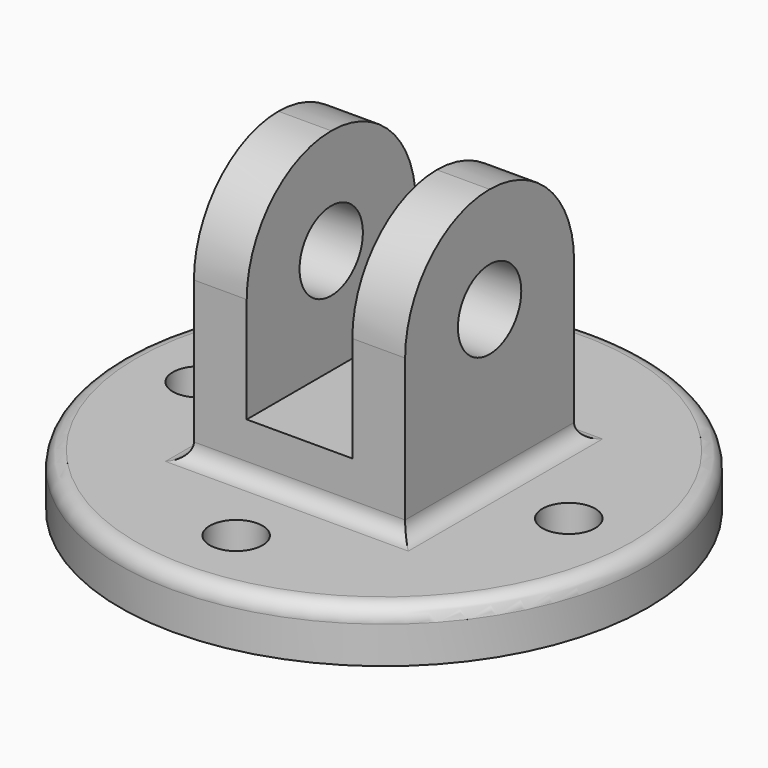
from build123d import *

# Parameters (mm, degrees)
F0_R     = 63.5
F0_R_2   = 6.35
F1_DEPTH = 12.7
F3_DEPTH = 25.4
F4_R     = 9.525
F5_DEPTH = 25.4
F6_R     = 3.81


with BuildPart() as f1:
    # F0 (on Top) → F1 (new body)
    with BuildSketch(Plane.XY):
        Circle(F0_R)
        with Locations((0, -44.45)):
            Circle(F0_R_2, mode=Mode.SUBTRACT)
        with Locations((-44.45, 0)):
            Circle(F0_R_2, mode=Mode.SUBTRACT)
        with Locations((44.45, 0)):
            Circle(F0_R_2, mode=Mode.SUBTRACT)
        with Locations((0, 44.45)):
            Circle(F0_R_2, mode=Mode.SUBTRACT)
    extrude(amount=F1_DEPTH)

    # F2 (on Front) → F3 (join, symmetric)
    with BuildSketch(Plane.XZ):
        Polygon((-25.4, 76.2), (-25.4, 12.7), (25.4, 12.7), (25.4, 76.2), (12.7, 76.2), (12.7, 25.4), (-12.7, 25.4), (-12.7, 76.2), align=None)
    extrude(amount=F3_DEPTH, both=True)

    # F4 (on Right) → F5 (cut, symmetric)
    with BuildSketch(Plane.YZ):
        with Locations((0, 50.8)):
            Circle(F4_R)
        with BuildLine():
            ThreePointArc((-25.4, 50.8), (-17.960512, 68.760512), (0, 76.2))
            Line((0, 76.2), (-25.4, 76.2))
            Line((-25.4, 76.2), (-25.4, 50.8))
        make_face()
        with BuildLine():
            ThreePointArc((0, 76.2), (17.960512, 68.760512), (25.4, 50.8))
            Line((25.4, 50.8), (25.4, 76.2))
            Line((25.4, 76.2), (0, 76.2))
        make_face()
    extrude(amount=F5_DEPTH, both=True, mode=Mode.SUBTRACT)

    # F6
    f6_edges = [f1.edges().sort_by_distance(p)[0] for p in [
        (-63.5, 0, 12.7),
        (25.4, 0, 12.7),
        (0, -25.4, 12.7),
        (-25.4, 0, 12.7),
        (0, 25.4, 12.7),
    ]]
    fillet(f6_edges, radius=F6_R)


solid = f1.part
